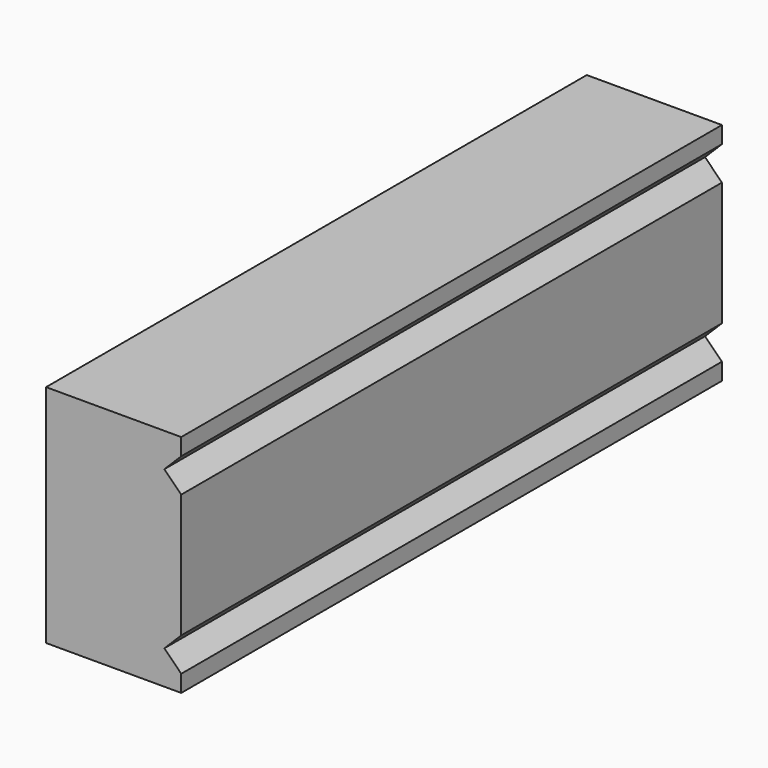
from build123d import *

# Parameters (mm, degrees)
F0_W     = 60
F0_H     = 20
F1_DEPTH = 12
F3_DEPTH = 60.001


with BuildPart() as f1:
    # F0 (on Right) → F1 (new body)
    with BuildSketch(Plane.YZ):
        Rectangle(F0_W, F0_H)
    extrude(amount=F1_DEPTH)

    # F2 (on face) → F3 (cut, through all)
    with BuildSketch(Plane.XZ.offset(30)):
        Polygon((12, 8.5), (10.5, 7), (12, 5.5), align=None)
        Polygon((12, -8.5), (12, -5.5), (10.5, -7), align=None)
    extrude(amount=-F3_DEPTH, mode=Mode.SUBTRACT)


solid = f1.part
